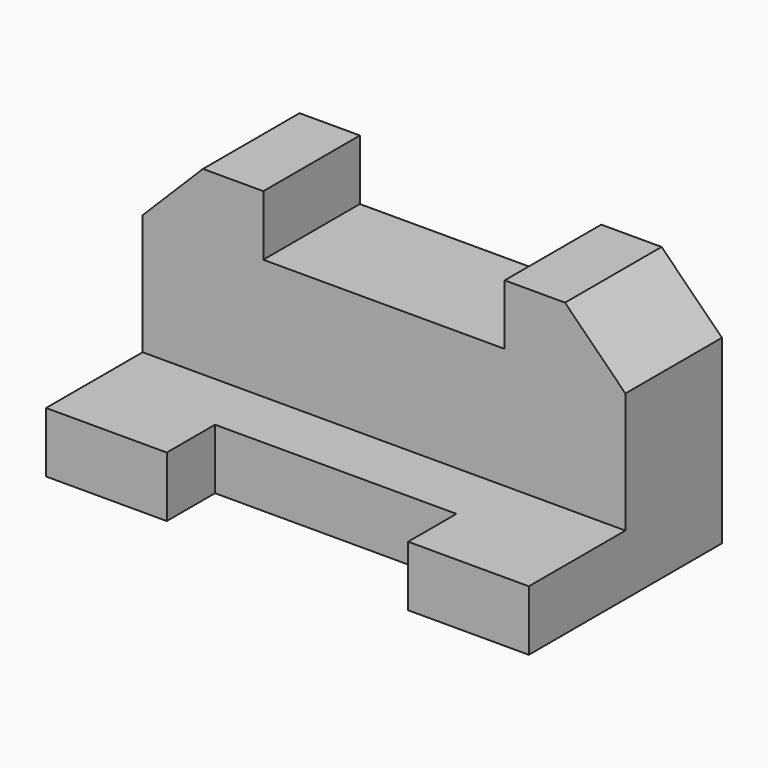
from build123d import *

# Parameters (mm, degrees)
F1_DEPTH = 101.6
F2_W     = 203.2
F2_H     = 50.8
F3_DEPTH = 76.2
F4_W     = 101.6
F4_H     = 25.4
F5_DEPTH = 25.4
F6_W     = 101.6
F6_H     = 50.8
F7_DEPTH = 25.4
F8_SIZE  = 25.4
F9_SIZE  = 25.4


with BuildPart() as f1:
    # F0 (on Top) → F1 (new body)
    with BuildSketch(Plane.XY):
        Polygon((-44.9187165678, 32.2039178327), (-95.7187165678, 32.2039178327), (-95.7187165678, -69.3960821673), (-44.9187165678, -69.3960821673), (56.6812834322, -69.3960821673), (107.4812834322, -69.3960821673), (107.4812834322, 32.2039178327), (56.6812834322, 32.2039178327), align=None)
    extrude(amount=F1_DEPTH)

    # F2 (on face) → F3 (cut)
    with BuildSketch(Plane.XY.offset(101.6)):
        with Locations((5.8812834322, -43.9960821673)):
            Rectangle(F2_W, F2_H)
    extrude(amount=-F3_DEPTH, mode=Mode.SUBTRACT)

    # F4 (on face) → F5 (cut)
    with BuildSketch(Plane.XY.offset(25.4)):
        with Locations((5.8812834322, -56.6960821673)):
            Rectangle(F4_W, F4_H)
    extrude(amount=-F5_DEPTH, mode=Mode.SUBTRACT)

    # F6 (on face) → F7 (cut)
    with BuildSketch(Plane.XY.offset(101.6)):
        with Locations((5.8812834322, 6.8039178327)):
            Rectangle(F6_W, F6_H)
    extrude(amount=-F7_DEPTH, mode=Mode.SUBTRACT)

    # F8
    f8_edges = [f1.edges().sort_by_distance(p)[0] for p in [
        (107.481283, 6.803918, 101.6),
    ]]
    chamfer(f8_edges, length=F8_SIZE)

    # F9
    f9_edges = [f1.edges().sort_by_distance(p)[0] for p in [
        (-95.718717, 6.803918, 101.6),
    ]]
    chamfer(f9_edges, length=F9_SIZE)


solid = f1.part
